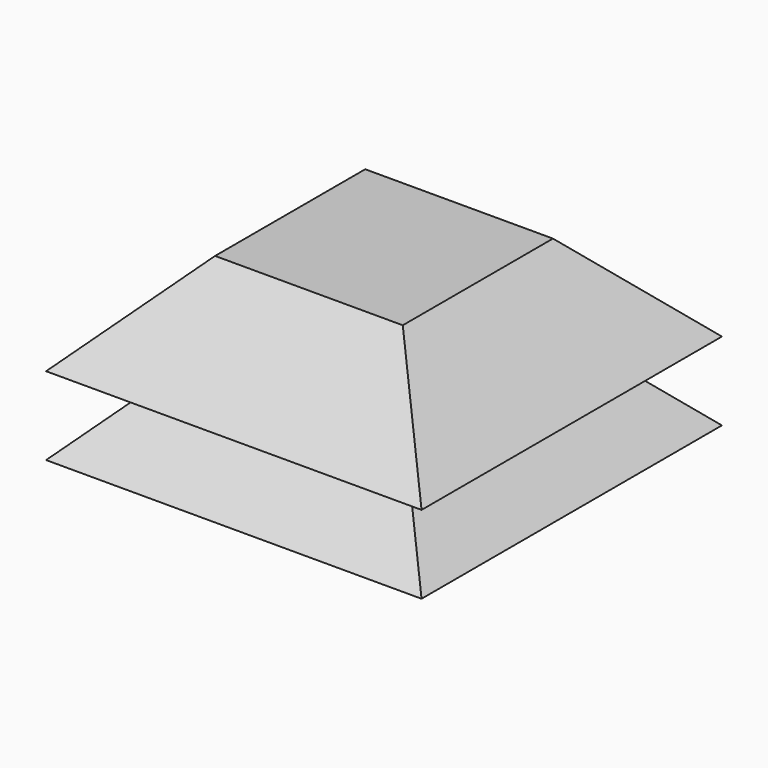
from build123d import *

# Parameters (mm, degrees)
F0_W     = 60
F0_H     = 60
F1_DEPTH = 30
F1_TAPER = -45
F3_W     = 60
F3_H     = 60
F4_DEPTH = 30
F4_TAPER = -45


with BuildPart() as f1:
    # F0 (on Top) → F1 (new body)
    with BuildSketch(Plane.XY):
        Rectangle(F0_W, F0_H)
    extrude(amount=-F1_DEPTH, taper=F1_TAPER)


with BuildPart() as f4:
    # F3 (on offset) → F4 (new body)
    with BuildSketch(Plane.XY.offset(25)):
        Rectangle(F3_W, F3_H)
    extrude(amount=-F4_DEPTH, taper=F4_TAPER)


solid = Compound([f1.part, f4.part])
